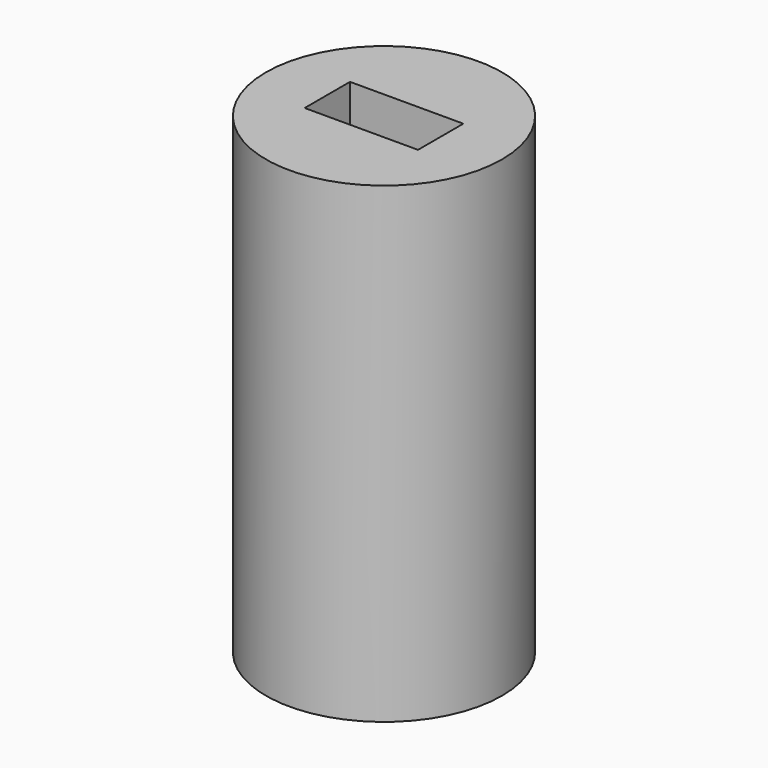
from build123d import *

# Parameters (mm, degrees)
F0_R     = 25
F1_DEPTH = 50
F2_W     = 24
F2_H     = 12
F3_DEPTH = 75


with BuildPart() as f1:
    # F0 (on Top) → F1 (new body, symmetric)
    with BuildSketch(Plane.XY):
        Circle(F0_R)
    extrude(amount=F1_DEPTH, both=True)

    # F2 (on face) → F3 (cut)
    with BuildSketch(Plane.XY.offset(50)):
        Rectangle(F2_W, F2_H)
    extrude(amount=-F3_DEPTH, mode=Mode.SUBTRACT)


solid = f1.part
